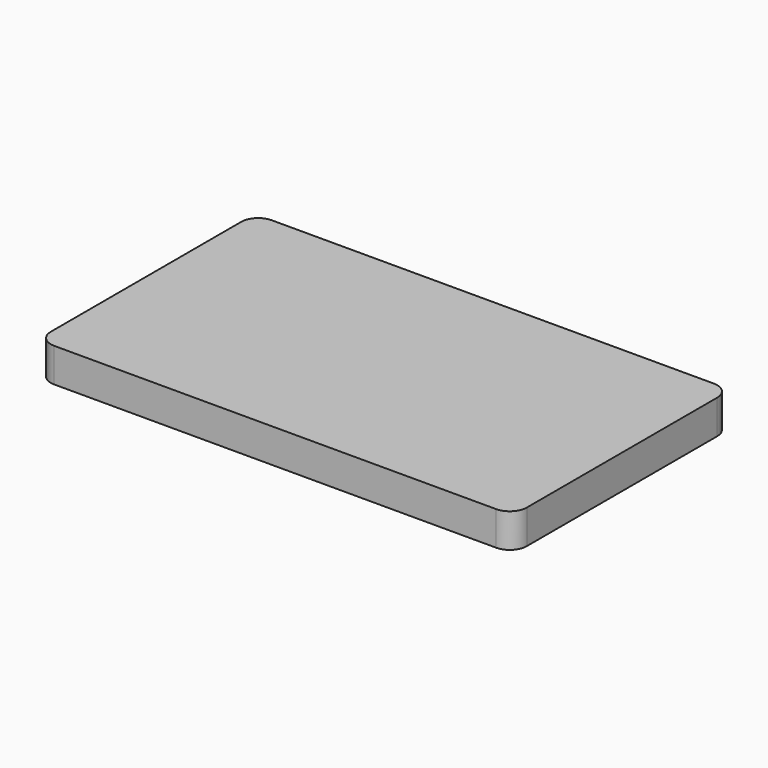
from build123d import *

# Parameters (mm, degrees)
F1_DEPTH = 6.35


with BuildPart() as f1:
    # F0 (on Top) → F1 (new body, symmetric)
    with BuildSketch(Plane.XY):
        with BuildLine():
            ThreePointArc((-88.9, -44.45), (-87.040128, -48.940128), (-82.55, -50.8))
            Line((-82.55, -50.8), (82.55, -50.8))
            ThreePointArc((82.55, -50.8), (87.040128, -48.940128), (88.9, -44.45))
            Line((88.9, -44.45), (88.9, 44.45))
            ThreePointArc((88.9, 44.45), (87.040128, 48.940128), (82.55, 50.8))
            Line((82.55, 50.8), (-82.55, 50.8))
            ThreePointArc((-82.55, 50.8), (-87.040128, 48.940128), (-88.9, 44.45))
            Line((-88.9, 44.45), (-88.9, -44.45))
        make_face()
    extrude(amount=F1_DEPTH, both=True)


solid = f1.part
